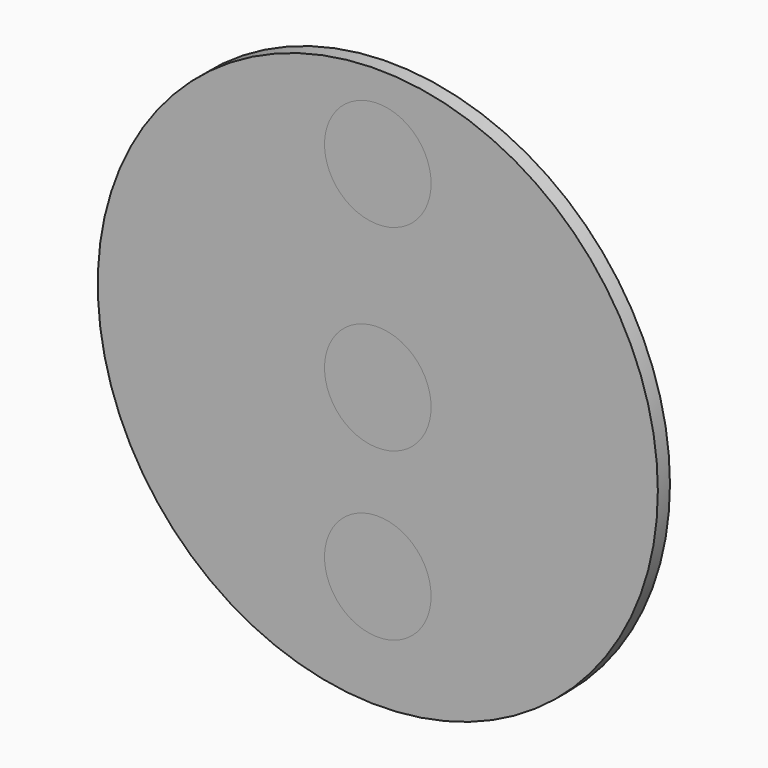
from build123d import *

# Parameters (mm, degrees)
F0_R     = 117.475
F1_DEPTH = 6.35
F2_R     = 117.475
F2_R_2   = 22.352
F3_DEPTH = 6.35


with BuildPart() as f1:
    # F0 (on Front) → F1 (new body)
    with BuildSketch(Plane.XZ):
        Circle(F0_R)
    extrude(amount=F1_DEPTH)


with BuildPart() as f3:
    # F2 (on Front) → F3 (new body)
    with BuildSketch(Plane.XZ):
        Circle(F2_R)
        with Locations((0, -69.85)):
            Circle(F2_R_2, mode=Mode.SUBTRACT)
        Circle(F2_R_2, mode=Mode.SUBTRACT)
        with Locations((0, 82.55)):
            Circle(F2_R_2, mode=Mode.SUBTRACT)
    extrude(amount=F3_DEPTH)


solid = Compound([f1.part, f3.part])
